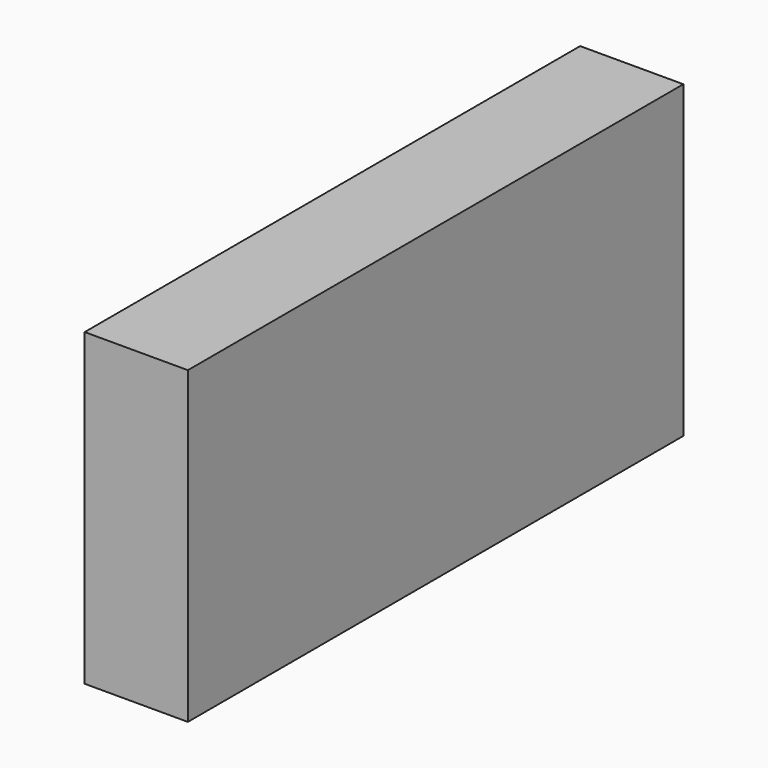
from build123d import *

# Parameters (mm, degrees)
BOX014_W               = 12
BOX014_H               = 10
BOX014_DEPTH           = 12
ARRAY001_X_COUNT       = 4
ARRAY001_X_PITCH       = 14.4
ARRAY001_Z_COUNT       = 2
ARRAY001_Z_PITCH       = 14
BOX013_W               = 60
BOX013_H               = 10
BOX013_DEPTH           = 30
CUT002_PLACEMENT_ANGLE = 90


with BuildPart() as obj1:
    # Box014 → Box014 (new body)
    with BuildSketch(Plane.XY):
        with Locations((6, 5)):
            Rectangle(BOX014_W, BOX014_H)
    extrude(amount=BOX014_DEPTH)

    # Array001 X: obj1 ×4


with BuildPart() as obj1_1:
    add(obj1.part)
    with Locations(*[(i * ARRAY001_X_PITCH, 0, 0) for i in range(1, ARRAY001_X_COUNT)]):
        add(obj1.part)

    # Array001 Z: obj1_2


with BuildPart() as obj1_2:
    add(obj1_1.part)
    with Locations(*[(0, 0, i * ARRAY001_Z_PITCH) for i in range(1, ARRAY001_Z_COUNT)]):
        add(obj1_1.part)


with BuildPart() as obj1_3:
    # Array001 placement: moved
    add(obj1_2.part.moved(Location((27.4, 91, 2))))


with BuildPart() as obj2:
    # Box013 → Box013 (new body)
    with BuildSketch(Plane(origin=(25, 90, 0), x_dir=(1, 0, 0), z_dir=(0, 0, 1))):
        with Locations((30, 5)):
            Rectangle(BOX013_W, BOX013_H)
    extrude(amount=BOX013_DEPTH)

    # Cut002: cut obj1
    add(obj1_3.part, mode=Mode.SUBTRACT)


with BuildPart() as obj2_1:
    # Cut002 placement: moved
    add(obj2.part.moved(Location((210, 0, 97))).rotate(Axis((210, 0, 97), (0, 0, 1)), CUT002_PLACEMENT_ANGLE))


solid = obj2_1.part
